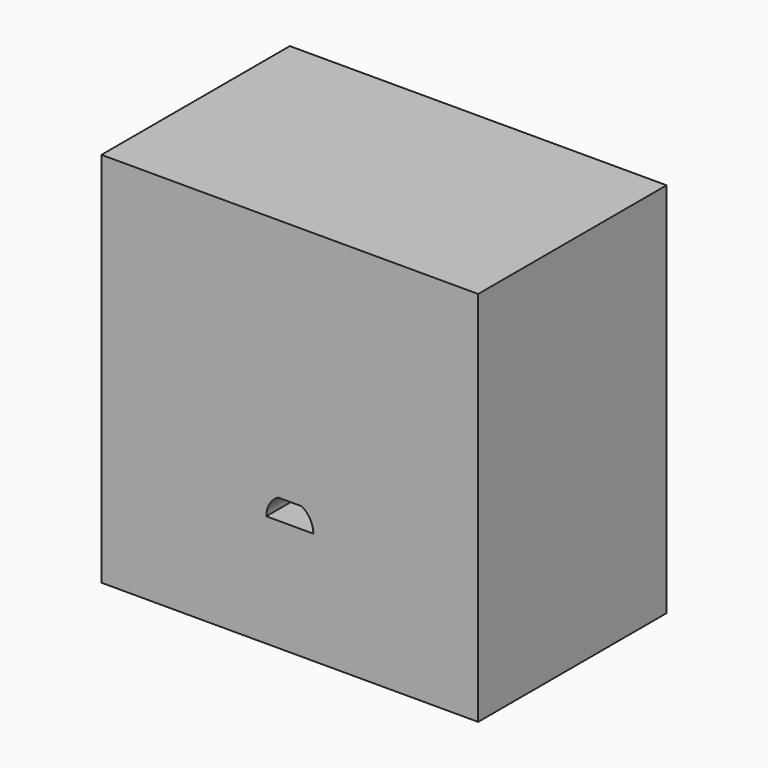
from build123d import *

# Parameters (mm, degrees)
F0_W     = 50.8
F0_H     = 50.8
F1_DEPTH = 31.75


with BuildPart() as f1:
    # F0 (on Front) → F1 (new body)
    with BuildSketch(Plane.XZ):
        with Locations((25.4, 25.4)):
            Rectangle(F0_W, F0_H)
        with BuildLine():
            ThreePointArc((22.225, 15.11808), (22.647171, 16.700027), (23.801414, 17.86128))
            Line((23.801414, 17.86128), (26.998586, 17.86128))
            ThreePointArc((26.998586, 17.86128), (28.152829, 16.700027), (28.575, 15.11808))
            Line((28.575, 15.11808), (22.225, 15.11808))
        make_face(mode=Mode.SUBTRACT)
    extrude(amount=F1_DEPTH)


solid = f1.part
